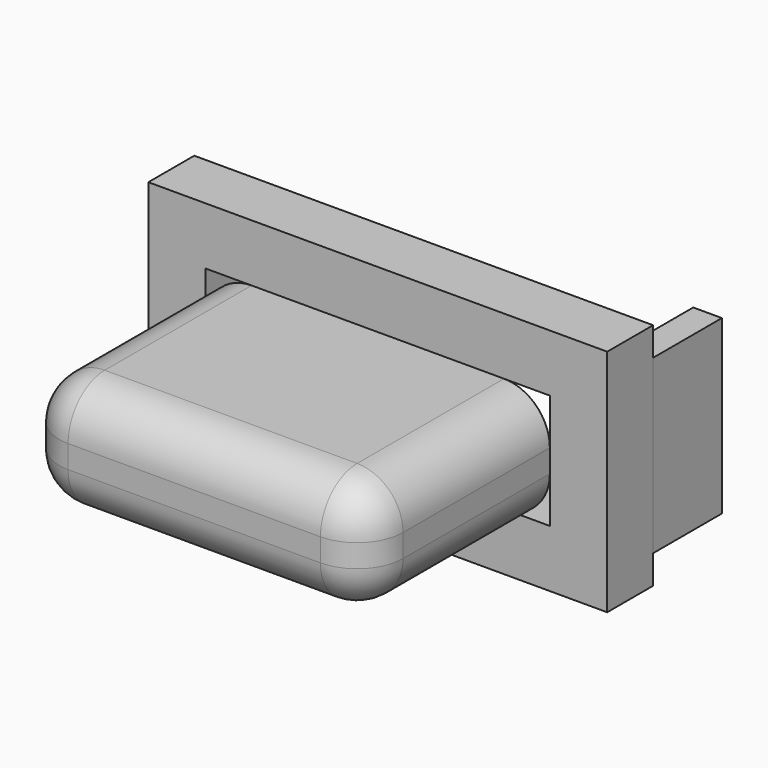
from build123d import *

# Parameters (mm, degrees)
F0_W     = 38.1
F0_H     = 12.7
F1_DEPTH = 25.4
F2_W     = 50.8
F2_H     = 25.4
F2_W_2   = 38.1
F2_H_2   = 12.7
F3_DEPTH = 6.35
F4_W     = 9.525
F4_H     = 19.05
F5_DEPTH = 3.175
F6_R     = 5.08


with BuildPart() as f1:
    # F0 (on Front) → F1 (new body)
    with BuildSketch(Plane.XZ):
        with Locations((-1.414714, -2.539574)):
            Rectangle(F0_W, F0_H)
    extrude(amount=-F1_DEPTH)

    # F6
    f6_edges = [f1.edges().sort_by_distance(p)[0] for p in [
        (17.635286, 12.7, 3.810426),
        (17.635286, 12.7, -8.889574),
        (17.635286, 0, -2.539574),
        (-1.414714, 0, 3.810426),
        (-1.414714, 0, -8.889574),
        (-20.464714, 0, -2.539574),
        (-20.464714, 12.7, 3.810426),
        (-20.464714, 12.7, -8.889574),
    ]]
    fillet(f6_edges, radius=F6_R)


with BuildPart() as f3:
    # F2 (on face) → F3 (new body)
    with BuildSketch(Plane(origin=(0, 25.4, 0), x_dir=(-1, 0, 0), z_dir=(0, 1, 0))):
        with Locations((1.414714, -2.539574)):
            Rectangle(F2_W, F2_H)
        with Locations((1.414714, -2.539574)):
            Rectangle(F2_W_2, F2_H_2, mode=Mode.SUBTRACT)
    extrude(amount=F3_DEPTH)


with BuildPart() as f5:
    # F4 (on face) → F5 (new body)
    with BuildSketch(Plane.YZ.offset(23.985286)):
        with Locations((36.5125, -2.539574)):
            Rectangle(F4_W, F4_H)
    extrude(amount=-F5_DEPTH)


solid = Compound([f1.part, f3.part, f5.part])
